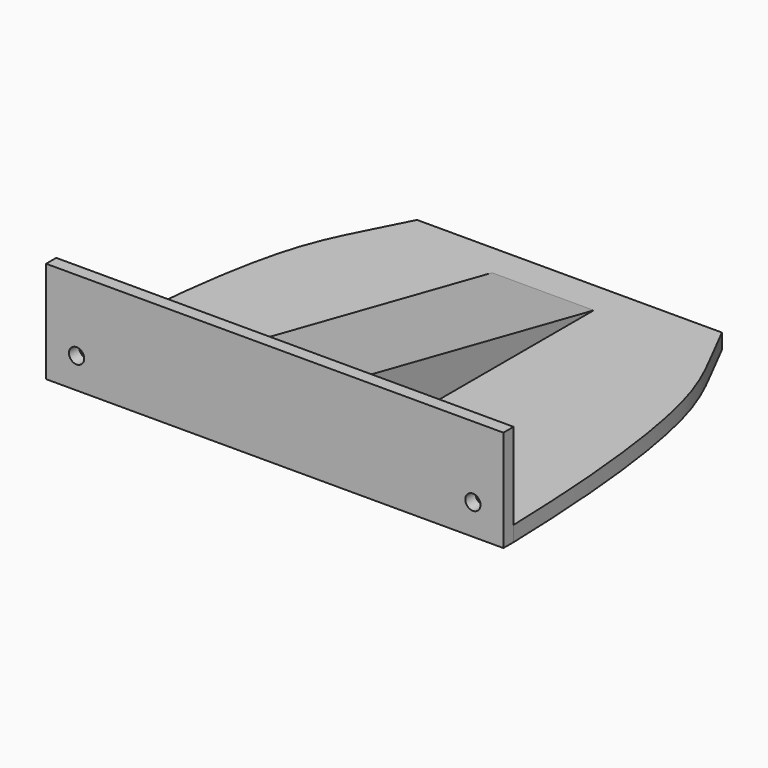
from build123d import *

# Parameters (mm, degrees)
F1_W          = 228.6
F1_H          = 50.8
F1_R          = 3.81
F2_DEPTH      = 6.35
F3_DEPTH      = 7.62
F5_DEPTH      = 25.4
F5_DEPTH_BACK = 25.4


with BuildPart() as f2:
    # F1 (on Front) → F2 (new body)
    with BuildSketch(Plane.XZ):
        with Locations((-0.0165204967, 25.4)):
            Rectangle(F1_W, F1_H)
        with Locations((-99.0765204967, 15.24)):
            Circle(F1_R, mode=Mode.SUBTRACT)
        with Locations((99.0434795033, 15.24)):
            Circle(F1_R, mode=Mode.SUBTRACT)
    extrude(amount=F2_DEPTH)

    # F0 (on Top) → F3 (join)
    with BuildSketch(Plane.XY):
        with BuildLine():
            Line((-114.3, 0), (0, 0))
            Line((0, 0), (114.3, 0))
            add(Edge.make_bspline(
                [(114.3, 0), (112.9042055321, 50.9900506367), (104.7924183286, 129.6019823877), (85.741828675, 158.2428378306), (76.2, 177.8)],
                knots=[0, 0, 0, 0, 0.604684, 1, 1, 1, 1], degree=3))
            Line((76.2, 177.8), (0, 177.8))
            Line((0, 177.8), (-76.2, 177.8))
            add(Edge.make_bspline(
                [(-114.3, 0), (-112.9042055321, 50.9900506367), (-104.7924183286, 129.6019823877), (-85.741828675, 158.2428378306), (-76.2, 177.8)],
                knots=[0, 0, 0, 0, 0.604684, 1, 1, 1, 1], degree=3))
        make_face()
    extrude(amount=F3_DEPTH)

    # F4 (on Right) → F5 (join, two sides)
    with BuildSketch(Plane.YZ) as f5_sk:
        Polygon((161.2199991941, 7.62), (0, 40.4569857569), (0, 7.62), align=None)
    extrude(amount=F5_DEPTH)
    extrude(f5_sk.sketch, amount=-F5_DEPTH_BACK)


solid = f2.part
